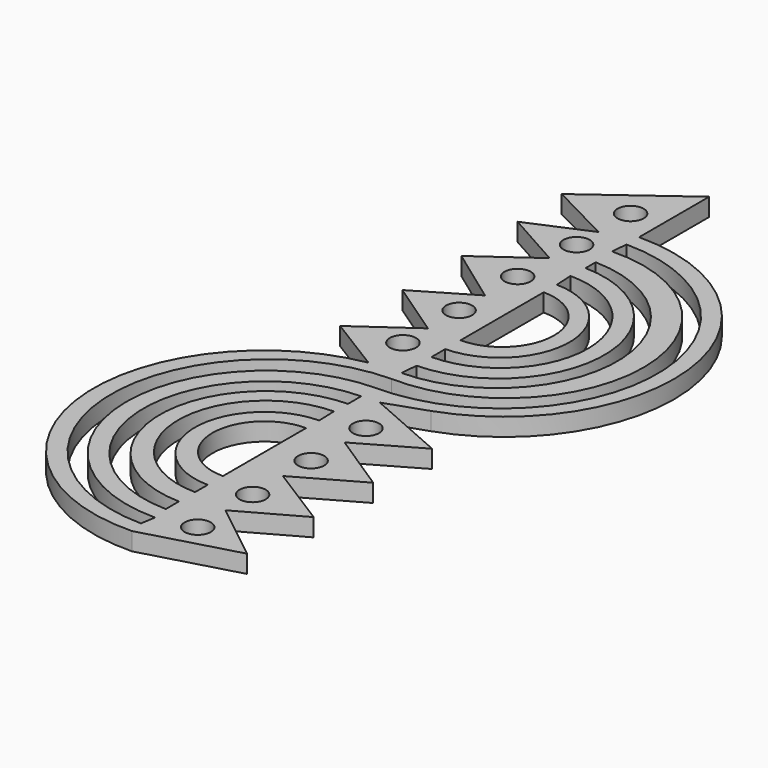
from build123d import *

# Parameters (mm, degrees)
F0_R     = 1.1
F1_DEPTH = 1.5


with BuildPart() as f1:
    # F0 (on Top) → F1 (new body)
    with BuildSketch(Plane.XY):
        with BuildLine():
            Line((-16.449034, 25.582358), (-13.085864, 26.744687))
            ThreePointArc((-13.085864, 26.744687), (-3.665809, 42.662595), (-17.838899, 54.547071))
            Line((-17.838899, 54.547071), (-17.839465, 61.902408))
            Line((-17.839465, 61.902408), (-25.633622, 56.165241))
            Line((-25.633622, 56.165241), (-20.374794, 53.457526))
            Line((-20.374794, 53.457526), (-25.436999, 51.282551))
            Line((-25.436999, 51.282551), (-20.566165, 48.553538))
            Line((-20.566165, 48.553538), (-25.276462, 45.183333))
            Line((-25.276462, 45.183333), (-20.566165, 41.770204))
            Line((-20.566165, 41.770204), (-25.276462, 38.982831))
            Line((-25.276462, 38.982831), (-20.566165, 35.778442))
            Line((-20.566165, 35.778442), (-25.276462, 32.451476))
            Line((-25.276462, 32.451476), (-20.566165, 29.539165))
            ThreePointArc((-20.566165, 29.539165), (-32.311828, 14.046154), (-17.742116, 1.173024))
            Line((-17.742116, 1.173024), (-9.828411, 3.381036))
            Line((-9.828411, 3.381036), (-14.804808, 7.30239))
            Line((-14.804808, 7.30239), (-9.66962, 10.163248))
            Line((-9.66962, 10.163248), (-14.890671, 13.461662))
            Line((-14.890671, 13.461662), (-9.66962, 16.419103))
            Line((-9.66962, 16.419103), (-14.715942, 19.715739))
            Line((-14.715942, 19.715739), (-9.66962, 22.603055))
            Line((-9.66962, 22.603055), (-16.449034, 25.582358))
        make_face()
        with BuildLine():
            ThreePointArc((-17.958905, 24.131211), (-26.640033, 15.255255), (-17.958905, 6.379299))
            Line((-17.958905, 6.379299), (-17.958905, 4.997463))
            ThreePointArc((-17.958905, 4.997463), (-28.034446, 15.255243), (-17.958905, 25.513023))
            Line((-17.958905, 25.513023), (-17.958905, 24.131211))
        make_face(mode=Mode.SUBTRACT)
        with BuildLine():
            ThreePointArc((-17.958905, 21.111373), (-23.716798, 15.255254), (-17.958905, 9.399135))
            Line((-17.958905, 9.399135), (-17.958905, 8.074642))
            ThreePointArc((-17.958905, 8.074642), (-25.224996, 15.368919), (-18.01292, 22.716608))
            Line((-18.01292, 22.716608), (-17.958905, 21.111373))
        make_face(mode=Mode.SUBTRACT)
        with BuildLine():
            Line((-17.958905, 19.73296), (-17.958905, 10.998826))
            ThreePointArc((-17.958905, 10.998826), (-22.325971, 15.365893), (-17.958905, 19.73296))
        make_face(mode=Mode.SUBTRACT)
        with Locations((-14.715942, 4.297463)):
            Circle(F0_R, mode=Mode.SUBTRACT)
        with Locations((-14.802257, 10.167783)):
            Circle(F0_R, mode=Mode.SUBTRACT)
        with Locations((-14.802257, 16.314593)):
            Circle(F0_R, mode=Mode.SUBTRACT)
        with Locations((-14.869977, 22.159354)):
            Circle(F0_R, mode=Mode.SUBTRACT)
        with BuildLine():
            ThreePointArc((-17.840212, 53.223826), (-4.778191, 40.069543), (-17.958905, 27.034193))
            ThreePointArc((-17.958905, 27.034193), (-29.504654, 15.223923), (-17.754743, 3.616753))
            Line((-17.754743, 3.616753), (-17.958905, 2.385385))
            ThreePointArc((-17.958905, 2.385385), (-30.952583, 15.535332), (-17.958905, 28.685279))
            ThreePointArc((-17.958905, 28.685279), (-6.04477, 40.271344), (-17.958905, 51.857408))
            Line((-17.958905, 51.857408), (-17.840212, 53.223826))
        make_face(mode=Mode.SUBTRACT)
        with Locations((-20.566165, 33.157293)):
            Circle(F0_R, mode=Mode.SUBTRACT)
        with Locations((-20.566165, 39.056927)):
            Circle(F0_R, mode=Mode.SUBTRACT)
        with Locations((-20.566165, 45.203738)):
            Circle(F0_R, mode=Mode.SUBTRACT)
        with Locations((-20.374794, 51.152751)):
            Circle(F0_R, mode=Mode.SUBTRACT)
        with Locations((-20.374794, 56.81926)):
            Circle(F0_R, mode=Mode.SUBTRACT)
        with BuildLine():
            ThreePointArc((-17.838899, 44.525128), (-13.471832, 40.158061), (-17.838899, 35.790995))
            Line((-17.838899, 35.790995), (-17.838899, 44.525128))
        make_face(mode=Mode.SUBTRACT)
        with BuildLine():
            Line((-17.838899, 32.743096), (-17.838899, 34.191303))
            ThreePointArc((-17.838899, 34.191303), (-12.081006, 40.047422), (-17.838899, 45.903541))
            Line((-17.838899, 45.903541), (-17.915331, 47.436859))
            ThreePointArc((-17.915331, 47.436859), (-10.572158, 40.127976), (-17.838899, 32.743096))
        make_face(mode=Mode.SUBTRACT)
        with BuildLine():
            ThreePointArc((-17.838899, 49.985725), (-7.941036, 39.811246), (-17.958905, 29.754903))
            Line((-17.958905, 29.754903), (-17.838899, 31.171467))
            ThreePointArc((-17.838899, 31.171467), (-9.15777, 40.047423), (-17.838899, 48.923379))
            Line((-17.838899, 48.923379), (-17.838899, 49.985725))
        make_face(mode=Mode.SUBTRACT)
    extrude(amount=F1_DEPTH)


solid = f1.part
